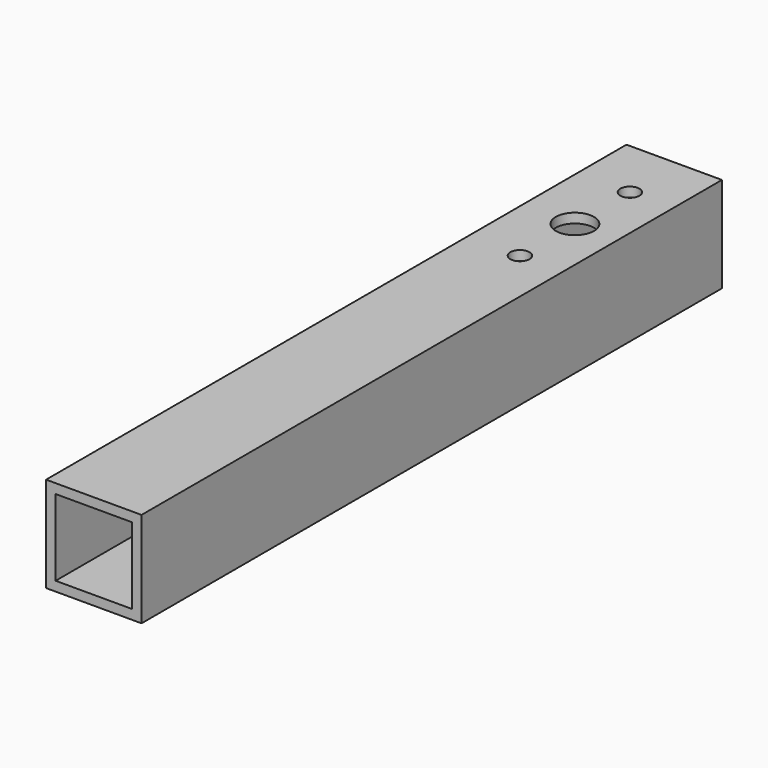
from build123d import *

# Parameters (mm, degrees)
F0_W     = 25
F0_H     = 25
F1_DEPTH = 190
F2_T     = -2.5
F4_D     = 10
F5_D     = 5


with BuildPart() as f1:
    # F0 (on Front) → F1 (new body)
    with BuildSketch(Plane.XZ):
        with Locations((12.5, 12.5)):
            Rectangle(F0_W, F0_H)
    extrude(amount=-F1_DEPTH)

    # F2
    f2_openings = [f1.faces().sort_by_distance(p)[0] for p in [
        (12.5, 0, 12.5),
        (12.5, 190, 12.5),
    ]]
    offset(amount=F2_T, openings=f2_openings)

    # F4 (through all)
    with Locations(Plane.XY.offset(25)):
        with Locations((13.7, 156)):
            Hole(F4_D / 2)

    # F5 (through all)
    with Locations(Plane.XY.offset(25)):
        with Locations((13.7, 138), (13.7, 174)):
            Hole(F5_D / 2)


solid = f1.part
